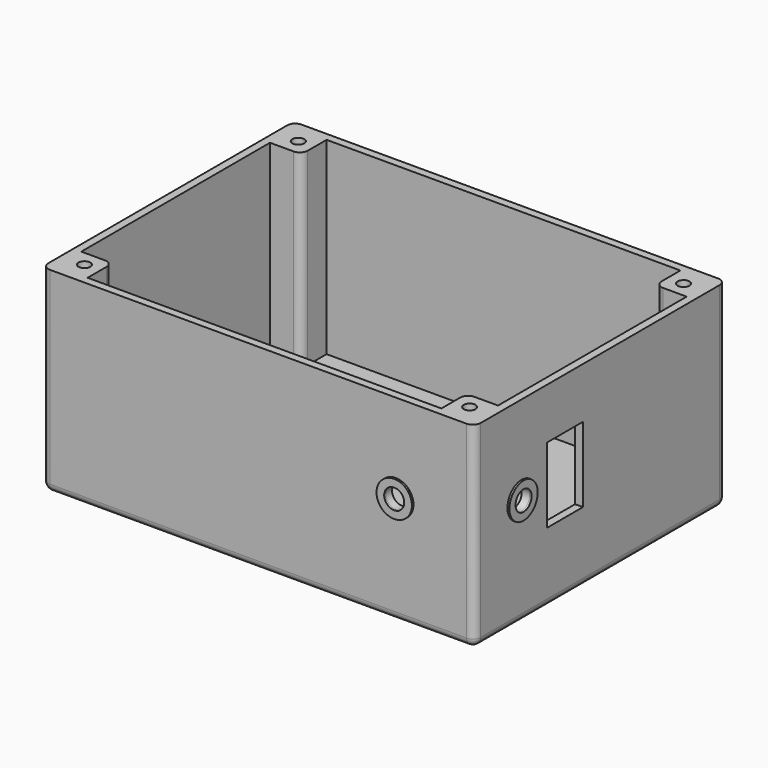
from build123d import *

# Parameters (mm, degrees)
SKETCH_W        = 110
SKETCH_H        = 80
PAD_DEPTH       = 50
SKETCH001_R     = 1.5
POCKET_DEPTH    = 48
FILLET_R        = 2
FILLET001_R     = 2
SKETCH002_R     = 2.55
SKETCH002_W     = 11.5
SKETCH002_H     = 19.1
POCKET001_DEPTH = 5
SKETCH003_R     = 2.55
POCKET002_DEPTH = 5
SKETCH004_R     = 4.5
SKETCH004_R_2   = 2.55
PAD001_DEPTH    = 0.5
SKETCH005_R     = 4.5
SKETCH005_R_2   = 2.55
PAD002_DEPTH    = 0.5


with BuildPart() as part:
    # Sketch → Pad (new body)
    with BuildSketch(Plane.XY):
        with Locations((55, 40)):
            Rectangle(SKETCH_W, SKETCH_H)
    extrude(amount=PAD_DEPTH)

    # Sketch001 (on Face6 of Pad) → Pocket (cut)
    with BuildSketch(Plane.XY.offset(50)):
        with Locations((6, 74)):
            Circle(SKETCH001_R)
        with Locations((104, 74)):
            Circle(SKETCH001_R)
        with Locations((104, 6)):
            Circle(SKETCH001_R)
        with Locations((6, 6)):
            Circle(SKETCH001_R)
        Polygon((2, 10), (10, 10), (10, 2), (100, 2), (100, 10), (108, 10), (108, 70), (100, 70), (100, 78), (10, 78), (10, 70), (2, 70), align=None)
    extrude(amount=-POCKET_DEPTH, mode=Mode.SUBTRACT)

    # Fillet
    fillet_edges = [part.edges().sort_by_distance(p)[0] for p in [
        (0, 80, 25),
        (0, 40, 0),
        (0, 0, 25),
        (55, 0, 0),
        (110, 0, 25),
        (110, 80, 25),
        (110, 40, 0),
        (55, 80, 0),
    ]]
    fillet(fillet_edges, radius=FILLET_R)

    # Fillet001
    fillet001_edges = [part.edges().sort_by_distance(p)[0] for p in [
        (100, 10, 26),
        (100, 70, 26),
        (10, 70, 26),
        (10, 10, 26),
    ]]
    fillet(fillet001_edges, radius=FILLET001_R)

    # Sketch002 (on Face22 of Fillet001) → Pocket001 (cut)
    with BuildSketch(Plane.YZ.offset(110)):
        with Locations((15, 27.5)):
            Circle(SKETCH002_R)
        with Locations((28.75, 27.5)):
            Rectangle(SKETCH002_W, SKETCH002_H)
    extrude(amount=-POCKET001_DEPTH, mode=Mode.SUBTRACT)

    # Sketch003 (on Face18 of Pocket001) → Pocket002 (cut)
    with BuildSketch(Plane.XZ):
        with Locations((90, 27.5)):
            Circle(SKETCH003_R)
    extrude(amount=-POCKET002_DEPTH, mode=Mode.SUBTRACT)

    # Sketch004 (on Face22 of Pocket002) → Pad001 (join)
    with BuildSketch(Plane.YZ.offset(110)):
        with Locations((15, 27.5)):
            Circle(SKETCH004_R)
        with Locations((15, 27.5)):
            Circle(SKETCH004_R_2, mode=Mode.SUBTRACT)
    extrude(amount=PAD001_DEPTH)

    # Sketch005 (on Face18 of Pad001) → Pad002 (join)
    with BuildSketch(Plane.XZ):
        with Locations((90, 27.5)):
            Circle(SKETCH005_R)
        with Locations((90, 27.5)):
            Circle(SKETCH005_R_2, mode=Mode.SUBTRACT)
    extrude(amount=PAD002_DEPTH)


solid = part.part
